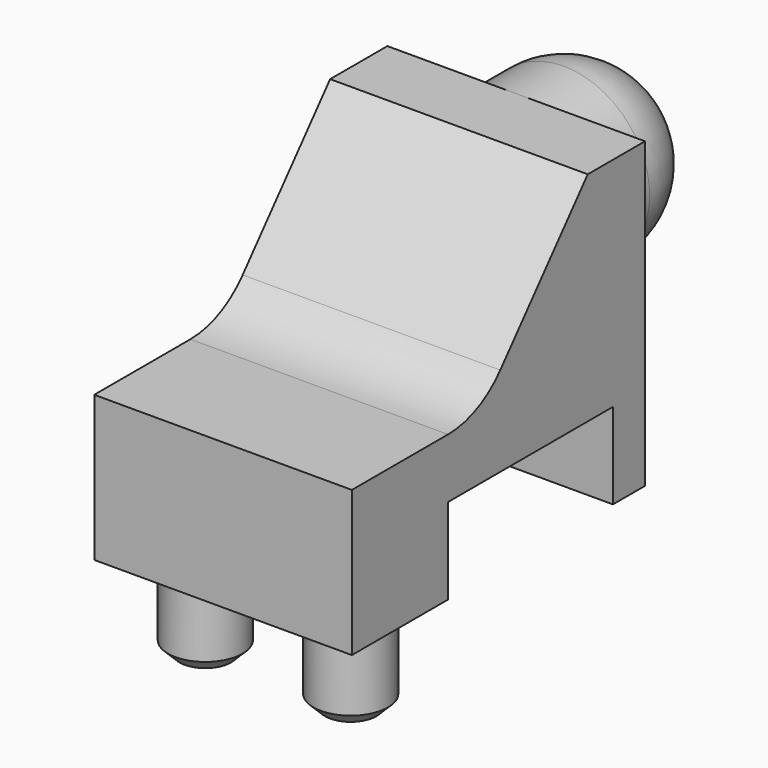
from build123d import *

# Parameters (mm, degrees)
PAD013_DEPTH    = 2.25
SKETCH022_R     = 0.65
PAD014_DEPTH    = 1.6
CHAMFER003_SIZE = 0.2


with BuildPart() as part:
    # Sketch020 → Pad013 (new body, symmetric)
    with BuildSketch(Plane.YZ):
        with BuildLine():
            Line((0, 0), (0, 5.3))
            Line((0, 5.3), (-1.25, 5.3))
            Line((-1.25, 5.3), (-3.159701, 3.065466))
            ThreePointArc((-4.3, 2.54), (-3.672227, 2.677686), (-3.159701, 3.065466))
            Line((-4.3, 2.54), (-6.4, 2.54))
            Line((-6.4, 2.54), (-6.4, 0))
            Line((-6.4, 0), (-4.3, 0))
            Line((-4.3, 0), (-4.3, 1.5))
            Line((-4.3, 1.5), (-0.7, 1.5))
            Line((-0.7, 1.5), (-0.7, 0))
            Line((-0.7, 0), (0, 0))
        make_face()
    extrude(amount=PAD013_DEPTH, both=True)

    # Sketch021 → Revolution (revolve)
    with BuildSketch(Plane.YZ):
        with BuildLine():
            Line((0, 3.8), (2.54, 3.8))
            ThreePointArc((2.54, 3.8), (2.10066, 4.86066), (1.04, 5.3))
            Line((1.04, 5.3), (0, 5.3))
            Line((0, 5.3), (0, 3.8))
        make_face()
    revolve(axis=Axis((0, 2.54, 3.8), (0, 1, 0)))

    # Sketch022 → Pad014 (join)
    with BuildSketch(Plane.XY):
        with Locations((-1.27, -5.2)):
            Circle(SKETCH022_R)
    pad014 = extrude(amount=-PAD014_DEPTH)

    # Mirrored003: Pad014 across Sketch022 V_Axis
    add(pad014.mirror(Plane(origin=(0, 0, 0), x_dir=(0, 0, 1), z_dir=(1, 0, 0))))

    # Chamfer003
    chamfer003_edges = [part.edges().sort_by_distance(p)[0] for p in [
        (1.92, -5.2, -1.6),
        (-1.92, -5.2, -1.6),
    ]]
    chamfer(chamfer003_edges, length=CHAMFER003_SIZE)


with BuildPart() as part_1:
    # Clone002 placement: moved
    add(part.part.moved(Location((100.1, -1, 0))))


solid = part_1.part
